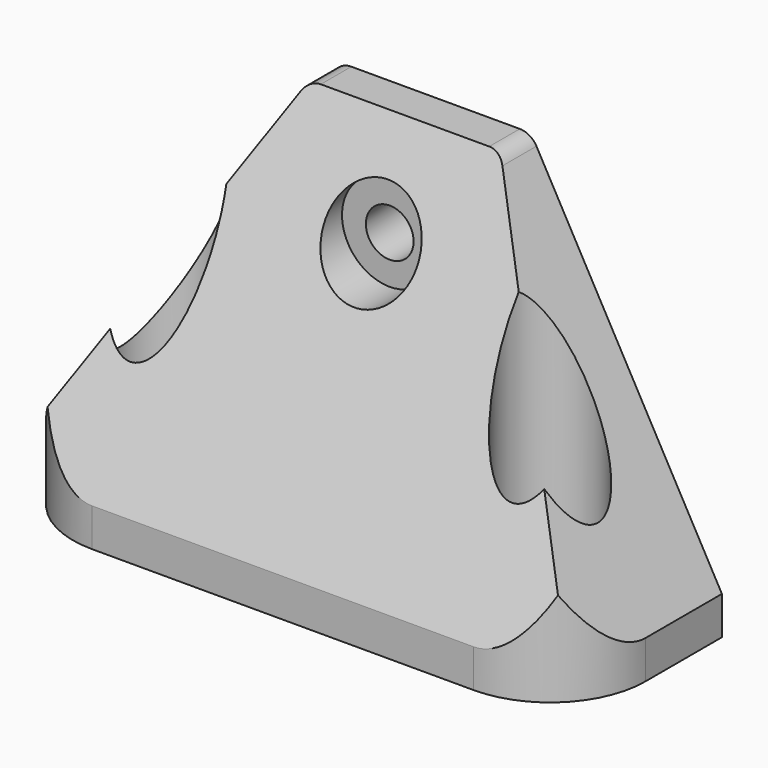
from build123d import *

# Parameters (mm, degrees)
SKETCH_W         = 60
SKETCH_H         = 20
PAD_DEPTH        = 40
POCKET_DEPTH     = 20.001
HOLE_D           = 5
HOLE_DEPTH       = 25
HOLE_CBORE_D     = 10
HOLE_CBORE_DEPTH = 14
POCKET001_DEPTH  = 60.001
SKETCH004_R      = 5
HOLE001_DEPTH    = 36
SKETCH005_R      = 2.5
POCKET002_DEPTH  = 5
FILLET_R         = 10
FILLET001_R      = 2


with BuildPart() as part:
    # Sketch → Pad (new body)
    with BuildSketch(Plane.XY):
        Rectangle(SKETCH_W, SKETCH_H)
    extrude(amount=PAD_DEPTH)

    # Sketch001 (on Face3 of Pad) → Pocket (cut, through all)
    with BuildSketch(Plane.XZ.offset(10)):
        Polygon((30, 40), (30, 4), (10, 40), align=None)
        Polygon((-30, 4), (-30, 40), (-10, 40), align=None)
    extrude(amount=-POCKET_DEPTH, mode=Mode.SUBTRACT)

    # Hole
    with Locations(Plane.XZ.offset(10)):
        with Locations((0, 30)):
            CounterBoreHole(HOLE_D / 2, HOLE_CBORE_D / 2, HOLE_CBORE_DEPTH, depth=HOLE_DEPTH)

    # Sketch003 (on Face4 of Hole) → Pocket001 (cut, through all)
    with BuildSketch(Plane.YZ.offset(30)):
        Polygon((-10, 4), (-10, 40), (6, 40), align=None)
    extrude(amount=-POCKET001_DEPTH, mode=Mode.SUBTRACT)

    # Sketch004 (on Face7 of Pocket001) → Hole001 (cut)
    with BuildSketch(Plane.XY.offset(40)):
        with Locations((-20, 0)):
            Circle(SKETCH004_R)
        with Locations((20, 0)):
            Circle(SKETCH004_R)
    extrude(amount=-HOLE001_DEPTH, mode=Mode.SUBTRACT)

    # Sketch005 (on Face15 of Hole001) → Pocket002 (cut)
    with BuildSketch(Plane.XY.offset(4)):
        with Locations((-20, 0)):
            Circle(SKETCH005_R)
        with Locations((20, 0)):
            Circle(SKETCH005_R)
    extrude(amount=-POCKET002_DEPTH, mode=Mode.SUBTRACT)

    # Fillet
    fillet_edges = [part.edges().sort_by_distance(p)[0] for p in [
        (30, -10, 2),
        (-30, -10, 2),
    ]]
    fillet(fillet_edges, radius=FILLET_R)

    # Fillet001
    fillet001_edges = [part.edges().sort_by_distance(p)[0] for p in [
        (10, 8, 40),
        (-10, 8, 40),
    ]]
    fillet(fillet001_edges, radius=FILLET001_R)


solid = part.part
